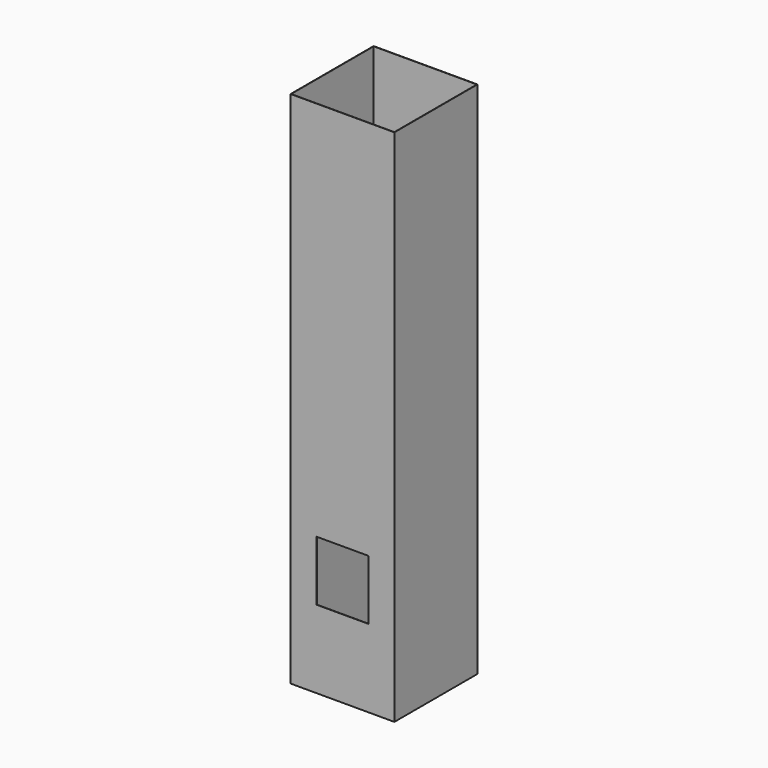
from build123d import *

# Parameters (mm, degrees)
F0_W     = 101.6
F0_H     = 101.6
F0_W_2   = 100.9904
F0_H_2   = 100.9904
F1_DEPTH = 254
F2_DEPTH = 254
F3_W     = 50.8
F3_H     = 58.6486
F4_DEPTH = 0.32766


with BuildPart() as f1:
    # F0 (on Top) → F1 (new body, symmetric)
    with BuildSketch(Plane.XY):
        Rectangle(F0_W, F0_H)
        Rectangle(F0_W_2, F0_H_2, mode=Mode.SUBTRACT)
    extrude(amount=F1_DEPTH, both=True)

    # F0 (on Top) → F2 (cut, symmetric)
    with BuildSketch(Plane.XY):
        Rectangle(F0_W_2, F0_H_2)
    extrude(amount=F2_DEPTH, both=True, mode=Mode.SUBTRACT)

    # F3 (on face) → F4 (cut)
    with BuildSketch(Plane.XZ.offset(50.8)):
        with Locations((0, -148.4757)):
            Rectangle(F3_W, F3_H)
    extrude(amount=-F4_DEPTH, mode=Mode.SUBTRACT)


solid = f1.part
